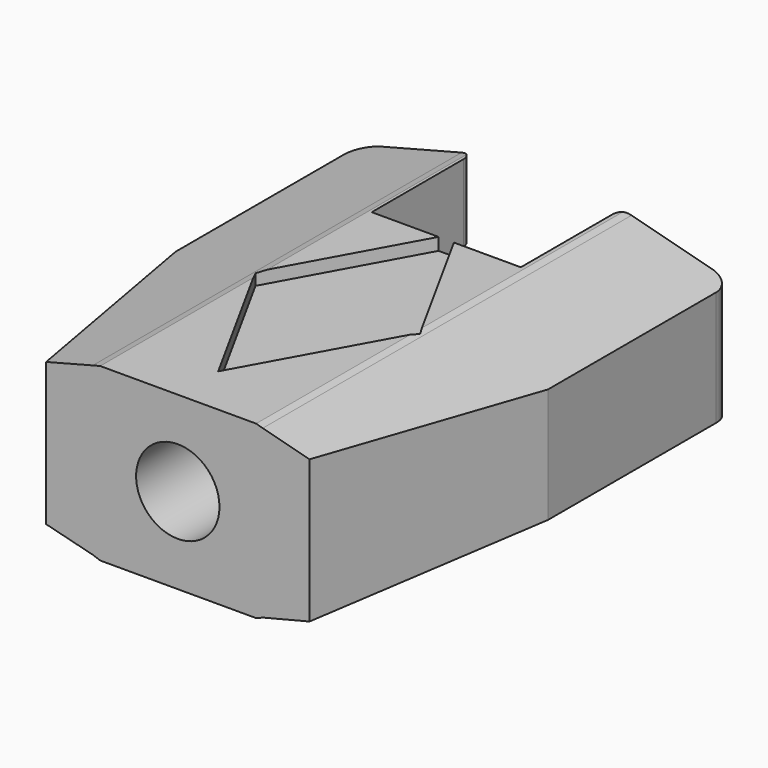
from build123d import *

# Parameters (mm, degrees)
PAD_DEPTH       = 12
POCKET_DEPTH    = 62
SKETCH019_W     = 31
SKETCH019_H     = 21.780884
POCKET002_DEPTH = 17
SKETCH020_R     = 2
POCKET003_DEPTH = 4
CYLINDER_R      = 4
CYLINDER_DEPTH  = 28
POCKET032_DEPTH = 5


with BuildPart() as part:
    # Sketch010 → Pad (new body, symmetric)
    with BuildSketch(Plane.XY):
        with BuildLine():
            Line((12.639868, 59.984547), (-12.639868, 59.984547))
            Line((-12.639868, 59.984547), (-17.867889, 82.058411))
            Line((-17.867889, 82.058411), (-17.867889, 102.222236))
            ThreePointArc((-15.867889, 104.222236), (-17.282103, 103.63645), (-17.867889, 102.222236))
            Line((-15.867889, 104.222236), (-8.154342, 104.222236))
            ThreePointArc((-7.154342, 103.222236), (-7.447235, 103.929343), (-8.154342, 104.222236))
            Line((-7.154342, 103.222236), (-7.154342, 92.189331))
            Line((-7.154342, 92.189331), (7.154342, 92.189331))
            Line((7.154342, 92.189331), (7.154342, 103.222236))
            ThreePointArc((8.154342, 104.222236), (7.447235, 103.929343), (7.154342, 103.222236))
            Line((8.154342, 104.222236), (15.867889, 104.222236))
            ThreePointArc((17.867889, 102.222236), (17.282103, 103.63645), (15.867889, 104.222236))
            Line((17.867889, 102.222236), (17.867889, 82.058411))
            Line((17.867889, 82.058411), (12.639868, 59.984547))
        make_face()
    extrude(amount=PAD_DEPTH, both=True)

    # Sketch011 → Pocket (cut)
    with BuildSketch(Plane.XZ.offset(-54)):
        Polygon((0, 13.813917), (-22.117895, 13.813917), (-22.117895, -0.189388), (-22.117895, -17.743416), (0, -17.743416), (22.658901, -17.743416), (22.658901, -0.111897), (22.658901, 13.813917), align=None)
        Polygon((-18.596464, 0), (-18.596464, 5.287208), (-8.154342, 8), (-7.443202, 8.179805), (0, 8.179805), (7.519913, 8.179805), (8.154342, 8), (18.531284, 5.287208), (18.531284, -0.112287), (18.531284, -5.399495), (8.154342, -8), (7.554242, -8.253323), (0.11104, -8.253323), (-7.443202, -8.253323), (-8.154342, -8), (-18.596464, -5.371119), align=None, mode=Mode.SUBTRACT)
    extrude(amount=-POCKET_DEPTH, mode=Mode.SUBTRACT)

    # Sketch019 → Pocket002 (cut)
    with BuildSketch(Plane.XY.offset(0.8)):
        with Locations((0.01352, 95.005211)):
            Rectangle(SKETCH019_W, SKETCH019_H)
    extrude(amount=-POCKET002_DEPTH, mode=Mode.SUBTRACT)

    # Sketch020 → Pocket003 (cut)
    with BuildSketch(Plane.XY.offset(0.8)):
        with Locations((-11.1, 94.9)):
            Circle(SKETCH020_R)
        with Locations((11.3, 94.9)):
            Circle(SKETCH020_R)
        with Locations((0.013518, 88.3)):
            Circle(SKETCH020_R)
    extrude(amount=POCKET003_DEPTH, mode=Mode.SUBTRACT)

    # Cylinder → Cylinder (cut)
    with BuildSketch(Plane.XZ.offset(-85)):
        Circle(CYLINDER_R)
    extrude(amount=CYLINDER_DEPTH, mode=Mode.SUBTRACT)

    # Sketch067 → Pocket032 (cut)
    with BuildSketch(Plane.XY.offset(7)):
        Polygon((-7.9, 79.180206), (0, 64.83), (7.9, 79.180206), (0, 93.53), align=None)
    extrude(amount=POCKET032_DEPTH, mode=Mode.SUBTRACT)


solid = part.part
